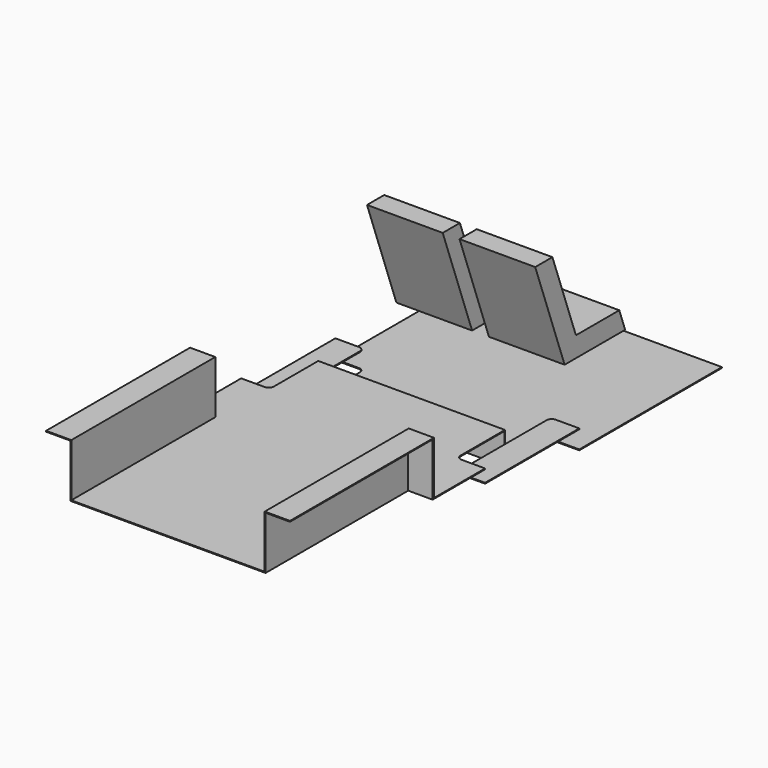
from build123d import *

# Parameters (mm, degrees)
F3_DEPTH       = 1060
F5_DEPTH       = 10
F6_W           = 1450
F6_H           = 5
F7_DEPTH       = 740
F12_DEPTH      = 725
F12_DEPTH_BACK = 725
F14_DEPTH      = 205
F15_START      = -90
F15_DEPTH      = 5
F17_START      = 50
F17_DEPTH      = 450


with BuildPart() as f3:
    # F2 (on Front) → F3 (new body)
    with BuildSketch(Plane.XZ):
        Polygon((-575, 0), (-725, 0), (-725, -5), (-580, -5), (-580, -320), (0, -320), (580, -320), (580, -5), (725, -5), (725, 0), (575, 0), (575, -315), (0, -315), (-575, -315), align=None)
    extrude(amount=F3_DEPTH)

    # F4 (on face) → F5 (join)
    with BuildSketch(Plane(origin=(0, 0, 0), x_dir=(-1, 0, 0), z_dir=(0, 1, 0))):
        Polygon((-575, 0), (-725, 0), (-725, -320), (725, -320), (725, 0), (575, 0), (575, -315), (-575, -315), align=None)
    extrude(amount=F5_DEPTH)

    # F6 (on face) → F7 (join, through all)
    with BuildSketch(Plane(origin=(0, 10, 0), x_dir=(-1, 0, 0), z_dir=(0, 1, 0))):
        with Locations((0, -317.5)):
            Rectangle(F6_W, F6_H)
    extrude(amount=F7_DEPTH)

    # F10 (on Right) → F12 (join, two sides)
    with BuildSketch(Plane.YZ) as f12_sk:
        Polygon((750, -500), (750, -315), (745, -315), (745, -505), (2150, -505), (2150, -500), align=None)
    extrude(amount=F12_DEPTH)
    extrude(f12_sk.sketch, amount=-F12_DEPTH_BACK)

    # F13 (on offset) → F14 (cut, through all)
    with BuildSketch(Plane.XY.offset(-300)):
        with BuildLine():
            Line((585, 390), (725, 390))
            Line((725, 390), (725, 1090))
            Line((725, 1090), (585, 1090))
            ThreePointArc((585, 1090), (563.7867965644, 1081.2132034356), (555, 1060))
            Line((555, 1060), (555, 420))
            ThreePointArc((555, 420), (563.7867965644, 398.7867965644), (585, 390))
        make_face()
        with BuildLine():
            ThreePointArc((-555, 1060), (-563.7867965644, 1081.2132034356), (-585, 1090))
            Line((-585, 1090), (-725, 1090))
            Line((-725, 1090), (-725, 390))
            Line((-725, 390), (-585, 390))
            ThreePointArc((-585, 390), (-563.7867965644, 398.7867965644), (-555, 420))
            Line((-555, 420), (-555, 1060))
        make_face()
    extrude(amount=-F14_DEPTH, mode=Mode.SUBTRACT)

    # F13 (on offset) → F15 (join)
    with BuildSketch(Plane.XY.offset(-300).offset(F15_START)):
        with BuildLine():
            Line((585, 390), (725, 390))
            Line((725, 390), (725, 1090))
            Line((725, 1090), (585, 1090))
            ThreePointArc((585, 1090), (563.7867965644, 1081.2132034356), (555, 1060))
            Line((555, 1060), (555, 420))
            ThreePointArc((555, 420), (563.7867965644, 398.7867965644), (585, 390))
        make_face()
        with BuildLine():
            ThreePointArc((-555, 1060), (-563.7867965644, 1081.2132034356), (-585, 1090))
            Line((-585, 1090), (-725, 1090))
            Line((-725, 1090), (-725, 390))
            Line((-725, 390), (-585, 390))
            ThreePointArc((-585, 390), (-563.7867965644, 398.7867965644), (-555, 420))
            Line((-555, 420), (-555, 1060))
        make_face()
    extrude(amount=-F15_DEPTH)


with BuildPart() as f17:
    # F16 (on Right) → F17 (new body)
    with BuildSketch(Plane.YZ.offset(F17_START)):
        Polygon((1171.5141930266, 400), (1043.8128603295, 400), (1262.1950008892, -200), (1712.1950008892, -200), (1668.5185727773, -80), (1346.2199054744, -80), align=None)
    extrude(amount=F17_DEPTH)


with BuildPart() as f18_1:
    # F18: instance of F17
    add(f17.part.mirror(Plane.YZ))


solid = Compound([f3.part, f17.part, f18_1.part])
